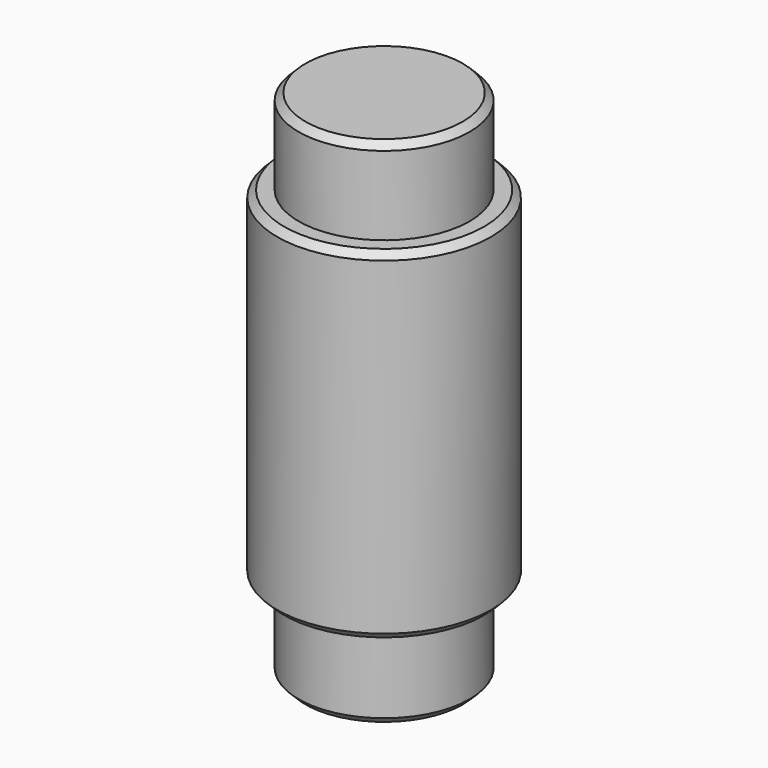
from build123d import *

# Parameters (mm, degrees)
F0_R     = 3.175
F1_DEPTH = 19.05
F3_R     = 3.96875
F4_DEPTH = 12.7
F5_SIZE  = 0.254


with BuildPart() as f1:
    # F0 (on Top) → F1 (new body)
    with BuildSketch(Plane.XY):
        Circle(F0_R)
    extrude(amount=F1_DEPTH)

    # F3 (on offset) → F4 (join)
    with BuildSketch(Plane.XY.offset(15.875)):
        Circle(F3_R)
    extrude(amount=-F4_DEPTH)

    # F5
    f5_edges = [f1.edges().sort_by_distance(p)[0] for p in [
        (-3.175, 0, 19.05),
        (-3.96875, 0, 15.875),
        (-3.96875, 0, 3.175),
        (-3.175, 0, 0),
    ]]
    chamfer(f5_edges, length=F5_SIZE)


solid = f1.part
